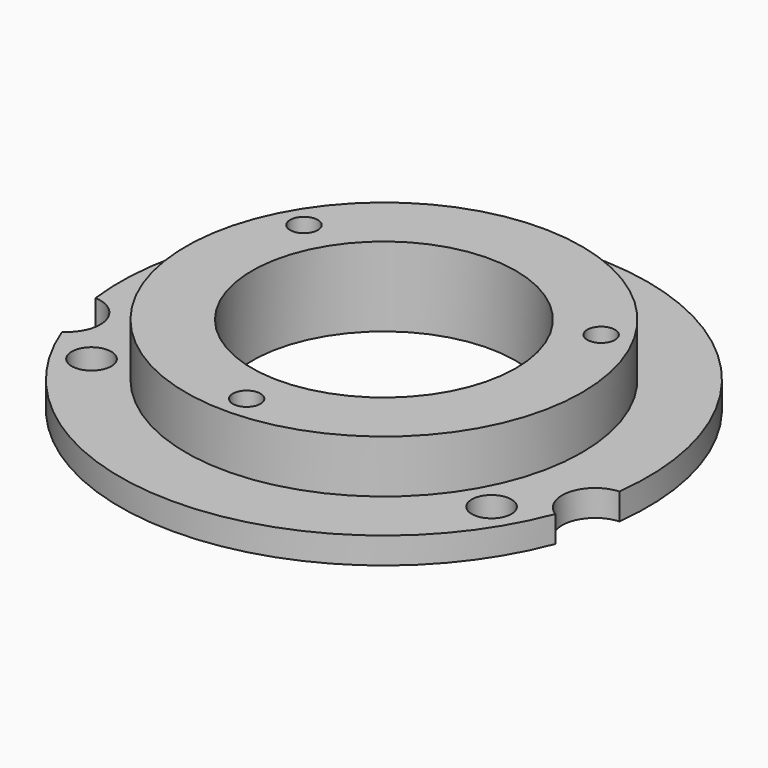
from build123d import *

# Parameters (mm, degrees)
SKETCH_R      = 3
SKETCH_R_2    = 2.1
SKETCH_R_3    = 20
PAD_DEPTH     = 12
SKETCH001_R   = 40
SKETCH001_R_2 = 30
POCKET_DEPTH  = 8


with BuildPart() as part:
    # Sketch → Pad (new body)
    with BuildSketch(Plane.XY):
        with BuildLine():
            ThreePointArc((-37.373806, -14.254775), (0, -40), (37.373806, -14.254775))
            ThreePointArc((39.685017, -5.009931), (35.149287, -8.787322), (37.373806, -14.254775))
            ThreePointArc((39.685017, -5.009931), (0, 40), (-39.685017, -5.009931))
            ThreePointArc((-37.373806, -14.254775), (-35.149287, -8.787322), (-39.685017, -5.009931))
        make_face()
        with Locations((0, 35)):
            Circle(SKETCH_R, mode=Mode.SUBTRACT)
        with Locations((-30.310889, -17.5)):
            Circle(SKETCH_R, mode=Mode.SUBTRACT)
        with Locations((30.310889, -17.5)):
            Circle(SKETCH_R, mode=Mode.SUBTRACT)
        with Locations((-22.51666, 13)):
            Circle(SKETCH_R_2, mode=Mode.SUBTRACT)
        with Locations((22.51666, 13)):
            Circle(SKETCH_R_2, mode=Mode.SUBTRACT)
        with Locations((0, -26)):
            Circle(SKETCH_R_2, mode=Mode.SUBTRACT)
        Circle(SKETCH_R_3, mode=Mode.SUBTRACT)
    extrude(amount=PAD_DEPTH)

    # Sketch001 (on Face13 of Pad) → Pocket (cut)
    with BuildSketch(Plane.XY.offset(12)):
        Circle(SKETCH001_R)
        Circle(SKETCH001_R_2, mode=Mode.SUBTRACT)
    extrude(amount=-POCKET_DEPTH, mode=Mode.SUBTRACT)


solid = part.part
